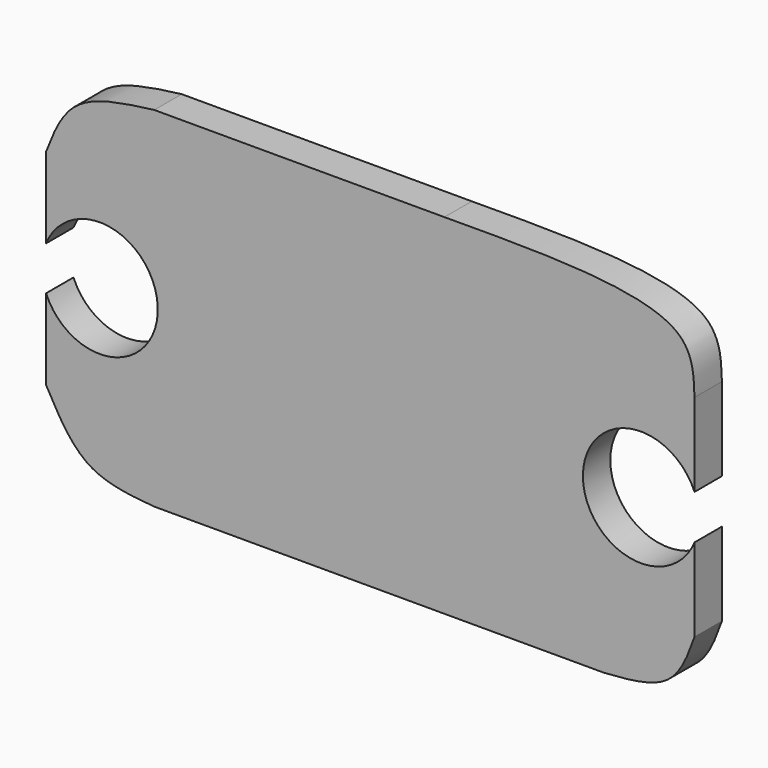
from build123d import *

# Parameters (mm, degrees)
F1_DEPTH = 3


with BuildPart() as f1:
    # F0 (on Front) → F1 (new body)
    with BuildSketch(Plane.XZ):
        with BuildLine():
            ThreePointArc((-41.5685183068, 17.2115741473), (-31.7863073381, 15.2891766842), (-41.5685183068, 13.3667792212))
            Line((-41.5685183068, 13.3667792212), (-41.5685183068, 6.2897060804))
            add(Edge.make_bspline(
                [(-41.5685183068, 6.2897060804), (-40.5110451617, 4.3618677361), (-38.4157281513, 0.5419764273), (-34.1862913757, 0.1795269801), (-32.091384023, 0)],
                knots=[0, 0, 0, 0, 0.5046840835, 1, 1, 1, 1], degree=3))
            Line((-32.091384023, 0), (7.2702049994, 0))
            add(Edge.make_bspline(
                [(15.2129016184, 5.3413121865), (14.6447493994, 3.7606222596), (13.4476780972, 0.4301793154), (9.3978891034, 0.1481650631), (7.2702049994, 0)],
                knots=[0, 0, 0, 0, 0.4746185277, 1, 1, 1, 1], degree=3))
            Line((15.2129016184, 5.3413121865), (15.2129016184, 12.6273036262))
            ThreePointArc((15.2129016184, 12.6273036262), (5.4398618144, 14.5719828795), (15.2129016184, 16.5166621327))
            Line((15.2129016184, 16.5166621327), (15.2129016184, 23.8026535724))
            add(Edge.make_bspline(
                [(15.2129016184, 23.8026535724), (15.1610136829, 25.4929601247), (15.0013770651, 30.6932984806), (2.0501826306, 30.6246729843), (-6.691384023, 30.5783533685)],
                knots=[0, 0, 0, 0, 0.3250378027, 1, 1, 1, 1], degree=3))
            Line((-6.691384023, 30.5783533685), (-32.091384023, 30.5783533685))
            add(Edge.make_bspline(
                [(-41.5685183068, 24.288647288), (-40.9100897642, 25.9794911706), (-39.4843435822, 29.6408060352), (-34.6780612652, 30.2503206867), (-32.091384023, 30.5783533685)],
                knots=[0, 0, 0, 0, 0.4618132953, 1, 1, 1, 1], degree=3))
            Line((-41.5685183068, 24.288647288), (-41.5685183068, 17.2115741473))
        make_face()
    extrude(amount=F1_DEPTH)


solid = f1.part
